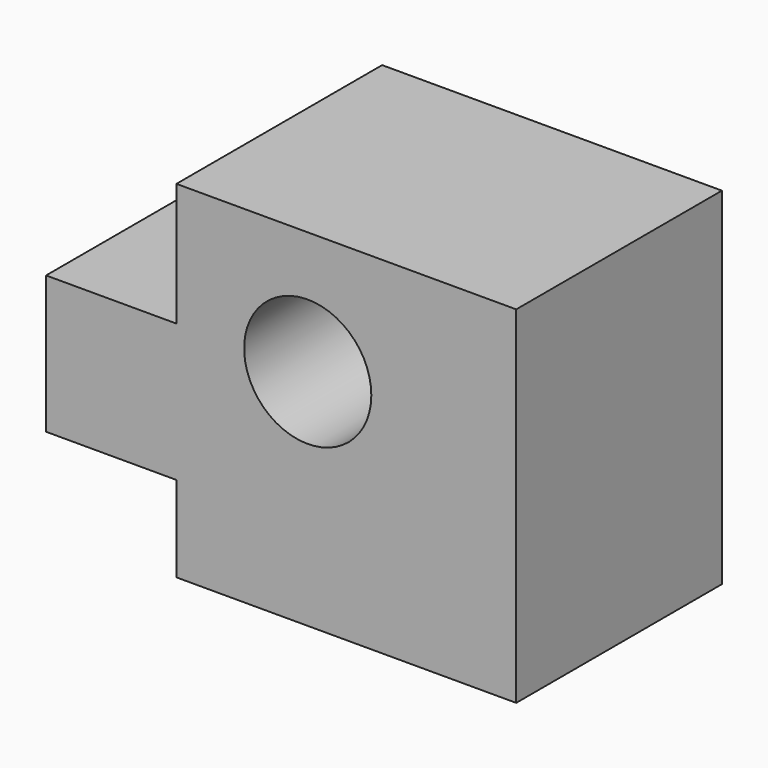
from build123d import *

# Parameters (mm, degrees)
F1_DEPTH = 76.2
F2_R     = 18.84371
F3_DEPTH = 76.2


with BuildPart() as f1:
    # F0 (on Front) → F1 (new body)
    with BuildSketch(Plane.XZ):
        Polygon((-57.544138, 17.34207), (-96.169658, 17.34207), (-96.169658, -23.451207), (-57.544138, -23.451207), (-57.544138, -48.873104), (43.158107, -48.873104), (43.158107, 53.799827), (-57.544138, 53.799827), align=None)
    extrude(amount=F1_DEPTH)

    # F2 (on face) → F3 (cut)
    with BuildSketch(Plane.XZ.offset(76.2)):
        with Locations((-18.626319, 17.434625)):
            Circle(F2_R)
    extrude(amount=-F3_DEPTH, mode=Mode.SUBTRACT)


solid = f1.part
